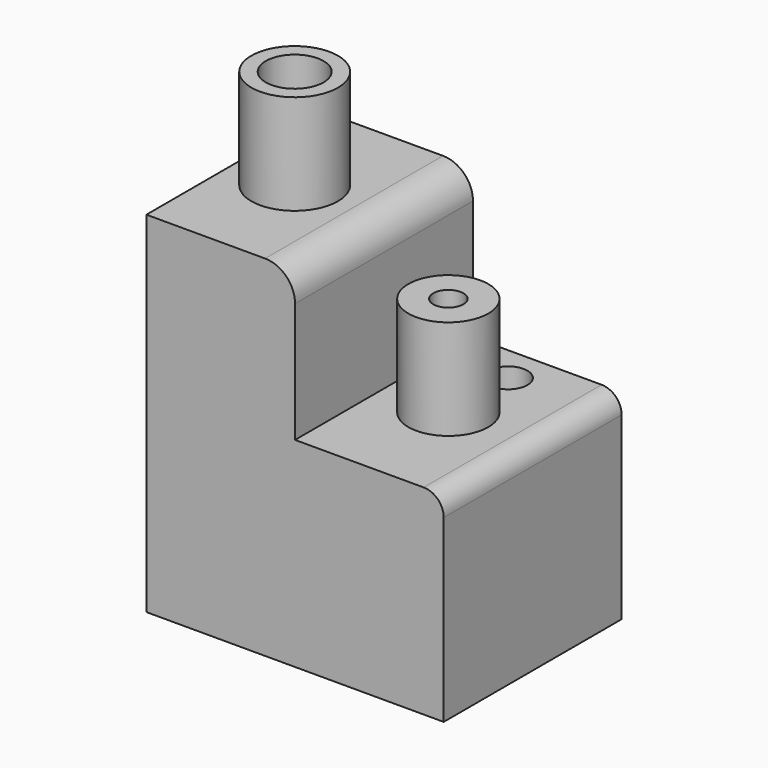
from build123d import *

# Parameters (mm, degrees)
F0_W      = 75.543475
F0_H      = 56.50536
F1_DEPTH  = 50.8
F2_W      = 37.771738
F2_H      = 56.50536
F3_DEPTH  = 38.1
F4_R      = 7.62
F5_R      = 5.08
F6_R      = 11.003795
F8_DEPTH  = 25.4
F7_R      = 10.16
F7_R_2    = 3.816716
F9_DEPTH  = 25.4
F7_R_3    = 4.942263
F10_DEPTH = 142.256165
F11_R     = 7.347925
F12_DEPTH = 124.534214


with BuildPart() as f1:
    # F0 (on Top) → F1 (new body)
    with BuildSketch(Plane.XY):
        with Locations((9.419816, -7.99929)):
            Rectangle(F0_W, F0_H)
    extrude(amount=F1_DEPTH)

    # F2 (on face) → F3 (join)
    with BuildSketch(Plane.XY.offset(50.8)):
        with Locations((-9.466053, -7.99929)):
            Rectangle(F2_W, F2_H)
    extrude(amount=F3_DEPTH)

    # F4
    f4_edges = [f1.edges().sort_by_distance(p)[0] for p in [
        (9.419816, -7.99929, 88.9),
    ]]
    fillet(f4_edges, radius=F4_R)

    # F5
    f5_edges = [f1.edges().sort_by_distance(p)[0] for p in [
        (47.191553, -7.99929, 50.8),
    ]]
    fillet(f5_edges, radius=F5_R)

    # F6 (on face) → F8 (join)
    with BuildSketch(Plane.XY.offset(88.9)):
        with Locations((-13.276053, -7.99929)):
            Circle(F6_R)
    extrude(amount=F8_DEPTH)

    # F7 (on face) → F9 (join)
    with BuildSketch(Plane.XY.offset(50.8)):
        with Locations((25.765684, -7.99929)):
            Circle(F7_R)
        with Locations((25.765684, -7.99929)):
            Circle(F7_R_2, mode=Mode.SUBTRACT)
    extrude(amount=F9_DEPTH)

    # F7 (on face) → F10 (cut)
    with BuildSketch(Plane.XY.offset(50.8)):
        with Locations((25.765684, 10.959573)):
            Circle(F7_R_3)
    extrude(amount=-F10_DEPTH, mode=Mode.SUBTRACT)

    # F11 (on face) → F12 (cut)
    with BuildSketch(Plane.XY.offset(114.3)):
        with Locations((-13.276053, -7.99929)):
            Circle(F11_R)
    extrude(amount=-F12_DEPTH, mode=Mode.SUBTRACT)


solid = f1.part
